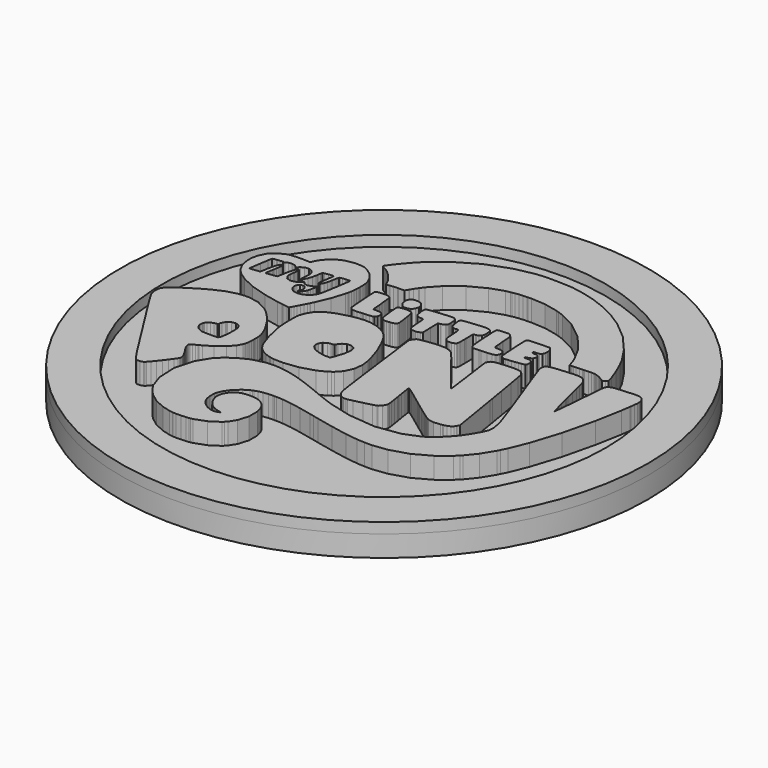
from build123d import *

# Parameters (mm, degrees)
F0_R     = 25
F0_R_2   = 21
F1_DEPTH = 2
F2_DEPTH = 1
F4_DEPTH = 2


with BuildPart() as f1:
    # F0 (on Top) → F1 (new body)
    with BuildSketch(Plane.XY):
        Circle(F0_R)
        Circle(F0_R_2, mode=Mode.SUBTRACT)
        Circle(F0_R_2)
    extrude(amount=-F1_DEPTH)

    # F0 (on Top) → F2 (join)
    with BuildSketch(Plane.XY):
        Circle(F0_R)
        Circle(F0_R_2, mode=Mode.SUBTRACT)
    extrude(amount=F2_DEPTH)

    # F3 (on face) → F4 (join)
    with BuildSketch(Plane.XY):
        Polygon((-6.68514, -17.02338), (-6.41054, -17.05756), (-6.31614, -17.06896), (-6.02974, -17.08252), (-5.58114, -17.07981), (-5.13174, -17.05105), (-4.84264, -17.01687), (-4.74774, -16.99897), (-4.52154, -16.95502), (-3.45914, -16.5644), (-2.57484, -15.98606), (-2.43704, -15.8488), (-2.25974, -15.67084), (-1.85224, -15.01166), (-1.55274, -14.0313), (-1.55874, -13.03793), (-1.76544, -12.35487), (-1.88914, -12.16336), (-1.95524, -12.06081), (-2.21024, -11.79009), (-2.61554, -11.54379), (-3.12274, -11.41791), (-3.59264, -11.39622), (-3.74774, -11.40598), (-3.84444, -11.4114), (-4.13244, -11.44722), (-4.44064, -11.52479), (-4.69944, -11.6485), (-4.88014, -11.77816), (-4.93484, -11.82752), (-5.01244, -11.89697), (-5.20774, -12.14708), (-5.38194, -12.51547), (-5.44874, -12.90609), (-5.42694, -13.20013), (-5.39984, -13.29237), (-5.35804, -13.43615), (-5.17304, -13.85063), (-4.85344, -14.27925), (-4.43734, -14.58144), (-4.05444, -14.7328), (-3.92194, -14.76047), (-3.88174, -14.76861), (-3.70764, -14.80984), (-3.60944, -14.83913), (-3.60674, -14.84186), (-3.64634, -14.87712), (-3.74344, -14.92377), (-3.76844, -14.93408), (-3.83244, -14.95958), (-4.03974, -14.99865), (-4.32834, -14.99105), (-4.62234, -14.91726), (-4.90994, -14.78488), (-5.17954, -14.59988), (-5.41884, -14.36984), (-5.61584, -14.10129), (-5.73074, -13.87886), (-5.75794, -13.80127), (-5.78344, -13.73075), (-5.85344, -13.2685), (-5.84144, -12.79325), (-5.82514, -12.71675), (-5.79204, -12.55506), (-5.59024, -12.09229), (-5.17244, -11.51069), (-4.60994, -11.01263), (-4.11564, -10.7137), (-3.93984, -10.64101), (-3.84224, -10.60031), (-3.54054, -10.49723), (-3.13314, -10.40555), (-2.66814, -10.35672), (-2.23844, -10.34261), (-2.09524, -10.34315), (-1.90164, -10.34315), (-1.31944, -10.37027), (-0.48724, -10.47065), (0.59516, -10.67355), (1.74206, -10.9242), (2.12346, -11.01155), (2.65516, -11.13308), (4.25576, -11.48194), (5.80406, -11.77598), (6.97546, -11.92736), (7.72736, -11.97076), (7.97796, -11.97076), (8.43526, -11.97076), (9.80846, -11.79877), (11.50936, -11.28173), (13.08206, -10.41748), (14.19806, -9.5375), (14.53126, -9.20545), (14.70376, -9.03293), (15.47796, -8.07265), (16.19456, -6.89479), (16.33846, -6.61379), (16.61346, -6.07449), (17.29706, -4.38339), (18.16516, -1.66369), (18.90626, 1.41681), (19.36626, 3.89781), (19.48576, 4.72911), (19.50196, 4.84401), (19.54806, 5.18911), (19.58166, 5.50161), (19.58876, 5.70611), (19.58006, 5.81031), (19.57306, 5.84341), (19.55576, 5.91881), (19.46446, 6.13631), (19.28936, 6.34521), (19.04686, 6.47001), (18.81406, 6.51131), (18.73646, 6.51131), (18.69026, 6.51131), (18.55366, 6.50591), (18.25846, 6.49111), (17.89116, 6.46891), (17.59166, 6.44881), (17.49236, 6.44181), (17.32866, 6.43041), (16.83916, 6.38641), (16.45506, 6.32031), (16.24836, 6.21671), (16.15126, 6.09521), (16.12796, 6.04951), (16.11226, 6.02021), (16.05256, 5.79611), (16.00956, 5.43591), (16.00266, 5.33821), (15.98256, 5.06811), (15.92186, 4.25701), (15.85126, 3.36241), (15.78296, 2.57131), (15.72976, 1.99411), (15.71126, 1.80141), (15.70046, 1.68921), (15.66626, 1.35061), (15.62826, 0.97911), (15.60006, 0.72561), (15.58866, 0.63131), (15.58696, 0.62911), (15.53876, 0.80001), (15.41666, 1.27361), (15.23976, 1.97721), (15.07866, 2.62341), (15.02546, 2.83881), (14.96586, 3.08071), (14.78626, 3.80671), (14.60666, 4.52711), (14.47586, 5.03991), (14.38206, 5.38541), (14.31326, 5.60251), (14.25896, 5.73151), (14.20626, 5.81241), (14.16076, 5.86671), (14.14556, 5.88461), (14.11576, 5.91931), (14.02186, 6.01701), (13.89486, 6.11571), (13.74346, 6.18411), (13.54826, 6.22421), (13.28896, 6.23841), (12.94596, 6.22961), (12.49946, 6.19971), (12.07146, 6.16411), (11.92936, 6.15101), (11.81866, 6.14131), (11.48706, 6.10861), (11.14366, 6.06641), (10.88766, 6.01861), (10.70526, 5.95951), (10.58546, 5.88411), (10.51436, 5.78701), (10.48076, 5.66211), (10.47196, 5.54391), (10.47196, 5.50431), (10.47196, 5.48161), (10.47796, 5.41101), (10.50406, 5.28181), (10.55936, 5.08711), (10.65436, 4.79851), (10.79916, 4.38561), (11.00326, 3.82031), (11.27706, 3.07271), (11.54236, 2.35321), (11.63086, 2.11351), (11.81916, 1.60291), (12.38076, 0.06811), (12.95196, -1.51719), (13.34366, -2.64249), (13.51556, -3.16329), (13.55686, -3.30869), (13.60296, -3.47089), (13.71696, -4.16799), (13.67726, -4.71649), (13.64636, -4.80439), (13.62026, -4.87659), (13.52436, -5.08649), (13.33166, -5.45169), (13.07296, -5.88949), (12.83586, -6.26599), (12.75506, -6.39029), (12.66936, -6.51989), (12.38116, -6.88939), (11.91686, -7.40695), (11.41876, -7.88276), (11.06876, -8.17301), (10.94516, -8.25873), (10.50836, -8.55876), (9.00276, -9.17454), (6.70626, -9.50711), (4.08906, -9.25645), (1.89186, -8.68354), (1.18596, -8.4215), (1.11596, -8.39545), (0.90706, -8.31462), (0.52796, -8.16541), (0.09826, -7.9929), (-0.22514, -7.86105), (-0.33204, -7.81711), (-0.68354, -7.67226), (-1.74634, -7.25993), (-2.86564, -6.88449), (-3.82164, -6.65229), (-4.51334, -6.54649), (-4.74494, -6.52539), (-5.04984, -6.49709), (-5.97494, -6.54219), (-7.13594, -6.82269), (-8.21344, -7.36138), (-8.97024, -7.93213), (-9.19274, -8.1524), (-9.51384, -8.46923), (-10.24088, -9.65902), (-10.73405, -11.43527), (-10.64887, -13.26958), (-10.20453, -14.57763), (-9.96148, -14.95252), (-9.82367, -15.1652), (-9.30504, -15.73703), (-8.47054, -16.36366), (-7.49404, -16.81071), align=None)
        Polygon((-13.75488, -12.13298), (-13.70822, -12.15305), (-13.6697, -12.16933), (-13.38433, -12.1742), (-13.10003, -12.09175), (-13.06206, -12.06516), (-13.02571, -12.03912), (-12.9324, -11.93766), (-12.72081, -11.69406), (-12.45822, -11.37288), (-12.1734, -11.01155), (-11.89616, -10.64805), (-11.65473, -10.31983), (-11.48003, -10.06537), (-11.41113, -9.96012), (-11.39973, -9.92215), (-11.38617, -9.87494), (-11.37966, -9.72412), (-11.43988, -9.48595), (-11.59451, -9.174), (-11.78819, -8.85823), (-11.85601, -8.75569), (-11.91352, -8.66888), (-12.07737, -8.40251), (-12.20377, -8.14861), (-12.24555, -7.96632), (-12.22873, -7.85943), (-12.21245, -7.82959), (-12.20594, -7.81657), (-12.14844, -7.77045), (-12.01063, -7.67713), (-11.81912, -7.5632), (-11.65038, -7.46988), (-11.59342, -7.44059), (-11.34115, -7.30876), (-10.60763, -6.86989), (-9.87847, -6.31209), (-9.37774, -5.74139), (-9.13034, -5.29219), (-9.07764, -5.13319), (-9.06194, -5.08489), (-9.02124, -4.93839), (-8.98924, -4.74799), (-8.97564, -4.50059), (-8.97354, -4.22719), (-8.97354, -4.13659), (-8.97404, -4.04329), (-8.97844, -3.76439), (-8.99574, -3.51259), (-9.03374, -3.31079), (-9.08254, -3.14259), (-9.10044, -3.08729), (-9.17264, -2.86759), (-9.47154, -2.23659), (-10.00976, -1.37069), (-10.64941, -0.58079), (-11.14366, -0.09579), (-11.32595, 0.04151), (-11.51203, 0.18251), (-12.44195, 0.65721), (-13.43858, 0.85161), (-13.65777, 0.85161), (-13.87152, 0.85211), (-14.51334, 0.77611), (-15.40147, 0.53201), (-16.37803, 0.09961), (-17.22548, -0.37189), (-17.49945, -0.54229), (-17.62206, -0.61819), (-17.98883, -0.84889), (-18.39301, -1.11189), (-18.72124, -1.33759), (-18.9822, -1.53289), (-19.18348, -1.70389), (-19.33431, -1.85789), (-19.44281, -2.00109), (-19.50195, -2.10479), (-19.51714, -2.14109), (-19.54481, -2.20459), (-19.58875, -2.64399), (-19.51063, -3.11759), (-19.47699, -3.19909), (-19.46234, -3.23539), (-19.31803, -3.48609), (-18.96592, -4.06979), (-18.47276, -4.86519), (-18.0371, -5.55799), (-17.89062, -5.78799), (-17.72515, -6.04789), (-17.22927, -6.83029), (-16.51855, -7.9522), (-15.84473, -9.01829), (-15.43023, -9.67529), (-15.29242, -9.89502), (-15.12206, -10.16683), (-14.60449, -10.98009), (-14.15527, -11.65445), (-13.87912, -12.01416), align=None)
        Polygon((-11.25434, -5.59649), (-11.28634, -5.60519), (-11.32324, -5.61499), (-11.5587, -5.62419), (-12.02745, -5.62529), (-12.50434, -5.61059), (-12.75281, -5.59439), (-12.79948, -5.58349), (-12.90581, -5.55849), (-13.20855, -5.41479), (-13.47927, -5.15159), (-13.5932, -4.82289), (-13.56553, -4.54079), (-13.53081, -4.45769), (-13.50802, -4.40189), (-13.39246, -4.25429), (-13.17599, -4.08829), (-12.91178, -3.97599), (-12.70019, -3.93529), (-12.62912, -3.93529), (-12.61284, -3.93529), (-12.56402, -3.86689), (-12.56402, -3.84469), (-12.56402, -3.77579), (-12.48426, -3.56909), (-12.33833, -3.32979), (-12.30523, -3.29509), (-12.23849, -3.22459), (-11.98242, -3.06509), (-11.64116, -2.99999), (-11.33517, -3.09649), (-11.15234, -3.27879), (-11.11816, -3.35209), (-11.10405, -3.38299), (-11.06878, -3.48009), (-11.04058, -3.63199), (-11.02756, -3.85609), (-11.0243, -4.11649), (-11.0243, -4.20329), (-11.02484, -4.33999), (-11.04438, -4.75019), (-11.09755, -5.18529), (-11.18055, -5.47989), align=None, mode=Mode.SUBTRACT)
        Polygon((1.98946, -7.35976), (2.05626, -7.37604), (2.07456, -7.38037), (2.30576, -7.38959), (2.32416, -7.38688), (2.42086, -7.37061), (2.85586, -7.27241), (3.65666, -7.08089), (4.40546, -6.88989), (4.75416, -6.79449), (4.78236, -6.77979), (4.83946, -6.74989), (5.08256, -6.51119), (5.24796, -6.18349), (5.26586, -6.10979), (5.27016, -6.09079), (5.26206, -5.96489), (5.22576, -5.66049), (5.16006, -5.21889), (5.09226, -4.80119), (5.06896, -4.66229), (5.04616, -4.53099), (4.98156, -4.13819), (4.91266, -3.68949), (4.86826, -3.36339), (4.85346, -3.22669), (4.85576, -3.20879), (4.85626, -3.19909), (4.86546, -3.17079), (4.90016, -3.16219), (4.98096, -3.19739), (5.12956, -3.29129), (5.36776, -3.45789), (5.71666, -3.71179), (6.19796, -4.06819), (6.67436, -4.42249), (6.83326, -4.54079), (6.93256, -4.61449), (7.23256, -4.83639), (7.61506, -5.11749), (7.97136, -5.37629), (8.29206, -5.60679), (8.56876, -5.80269), (8.79236, -5.95679), (8.95346, -6.06359), (9.01906, -6.10539), (9.04296, -6.11629), (9.13026, -6.15639), (9.66086, -6.25029), (10.32056, -6.20249), (10.47256, -6.17219), (10.56366, -6.15369), (10.83386, -6.08149), (11.09096, -5.96919), (11.27226, -5.81949), (11.37806, -5.66919), (11.40516, -5.61549), (11.51266, -5.39899), (10.78896, -0.97299), (10.71776, -0.53899), (10.50236, 0.76201), (10.25766, 2.21321), (10.08136, 3.22951), (10.00766, 3.62991), (9.99896, 3.65811), (9.98266, 3.70851), (9.84206, 3.93851), (9.64516, 4.11211), (9.60126, 4.13381), (9.55516, 4.15671), (9.39616, 4.18701), (9.05976, 4.21091), (8.59806, 4.20431), (8.16146, 4.17951), (8.01656, 4.16751), (7.87116, 4.15611), (7.43656, 4.11271), (7.09736, 4.04661), (6.91236, 3.94181), (6.81956, 3.81591), (6.79626, 3.76971), (6.70576, 3.59611), (7.03016, 1.21821), (7.06166, 0.98661), (7.15446, 0.28951), (7.25476, -0.48149), (7.31936, -1.01479), (7.34096, -1.21979), (7.33946, -1.22969), (7.30306, -1.20209), (7.20546, -1.09289), (7.05086, -0.90899), (6.84516, -0.65619), (6.59296, -0.34209), (6.29936, 0.02851), (5.97056, 0.44781), (5.70046, 0.79411), (5.61086, 0.90961), (5.44206, 1.12771), (4.93326, 1.77861), (4.35396, 2.51111), (3.93556, 3.03031), (3.76026, 3.23971), (3.73866, 3.25881), (3.65556, 3.33201), (3.36376, 3.50131), (2.89006, 3.62431), (2.25266, 3.63631), (1.60206, 3.57451), (1.38666, 3.54401), (1.25766, 3.52611), (0.73236, 3.43671), (0.42476, 3.36071), (0.40476, 3.34881), (0.38576, 3.33851), (0.28006, 3.23491), (0.18226, 3.09541), (0.16826, 3.06671), (0.06516, 2.86041), (0.64616, -1.70929), (0.71126, -2.22359), (0.91086, -3.76819), (1.10946, -5.24879), (1.24576, -6.17979), (1.30646, -6.53779), (1.32326, -6.59149), (1.34706, -6.67069), (1.44416, -6.90129), (1.59836, -7.12647), (1.79796, -7.28), align=None)
        Polygon((-6.34874, -5.64429), (-6.20174, -5.67519), (-5.90164, -5.73809), (-4.96694, -5.76469), (-3.59854, -5.59709), (-2.29764, -5.21349), (-1.49584, -4.83149), (-1.26474, -4.65689), (-1.08564, -4.52069), (-0.62274, -4.01449), (-0.25274, -3.25819), (-0.14854, -2.37159), (-0.24194, -1.58889), (-0.30654, -1.33709), (-0.37484, -1.07179), (-0.75844, 0.11641), (-1.22884, 1.20251), (-1.34014, 1.41681), (-1.41444, 1.56001), (-1.65694, 1.97841), (-1.95094, 2.37661), (-2.26944, 2.66521), (-2.56084, 2.84861), (-2.66224, 2.89961), (-2.81674, 2.97771), (-3.30024, 3.17031), (-3.91704, 3.31031), (-4.58104, 3.32771), (-5.16594, 3.26531), (-5.35864, 3.23101), (-5.62444, 3.18491), (-6.79574, 2.87741), (-7.65954, 2.50291), (-7.77124, 2.42321), (-7.85374, 2.36461), (-8.08544, 2.16561), (-8.33664, 1.87531), (-8.54164, 1.53131), (-8.67944, 1.21671), (-8.71744, 1.10921), (-8.73594, 1.05821), (-8.78474, 0.90201), (-8.81994, 0.69421), (-8.83304, 0.38111), (-8.83464, -0.00999), (-8.83414, -0.14079), (-8.83414, -0.29929), (-8.81454, -0.94649), (-8.77004, -1.43529), (-8.75704, -1.51499), (-8.71144, -1.79659), (-8.39464, -3.15029), (-8.00454, -4.28199), (-7.92154, -4.45339), (-7.86624, -4.56839), (-7.64104, -4.88579), (-7.25804, -5.23519), (-6.77734, -5.49889), align=None)
        Polygon((-2.54834, -2.43249), (-2.60694, -2.58499), (-2.74904, -2.95329), (-3.04744, -2.94789), (-3.09564, -2.94679), (-3.23884, -2.94299), (-3.38424, -2.92939), (-3.55904, -2.89749), (-3.76734, -2.85079), (-3.83624, -2.83499), (-3.93774, -2.81159), (-4.23344, -2.70909), (-4.54484, -2.53609), (-4.76024, -2.32459), (-4.85454, -2.14649), (-4.86594, -2.08359), (-4.88224, -1.99679), (-4.85194, -1.72289), (-4.68204, -1.43209), (-4.38154, -1.23829), (-4.07814, -1.16779), (-3.97674, -1.16779), (-3.93064, -1.16779), (-3.79064, -1.14339), (-3.71744, -1.03869), (-3.70124, -1.00069), (-3.66204, -0.90729), (-3.46194, -0.66159), (-3.12664, -0.47499), (-2.75814, -0.45819), (-2.48694, -0.56829), (-2.41854, -0.62959), (-2.38664, -0.65789), (-2.29764, -0.78369), (-2.26564, -0.99209), (-2.26174, -1.06209), (-2.25744, -1.14939), (-2.33944, -1.72549), align=None, mode=Mode.SUBTRACT)
        Polygon((-11.36501, 1.60721), (-10.8903, 1.53671), (-10.79209, 1.52271), (-10.38356, 1.46071), (-10.16981, 1.42711), (-10.16873, 1.42601), (-10.16819, 1.42601), (-10.13942, 1.46721), (-10.06944, 1.58721), (-9.96908, 1.76721), (-9.84647, 1.99201), (-9.71191, 2.24251), (-9.57514, 2.50181), (-9.44444, 2.75311), (-9.35764, 2.92241), (-9.32944, 2.97881), (-9.19754, 3.24351), (-8.65504, 4.52281), (-8.26334, 5.76251), (-8.20634, 6.00721), (-8.18954, 6.08101), (-8.14394, 6.30351), (-8.10654, 6.56341), (-8.08754, 6.85031), (-8.08164, 7.13181), (-8.08104, 7.22521), (-8.08104, 7.31791), (-8.08264, 7.59631), (-8.09574, 7.85071), (-8.12554, 8.04341), (-8.16244, 8.18451), (-8.17654, 8.23001), (-8.22704, 8.38891), (-8.45814, 8.83921), (-8.87204, 9.35091), (-9.38854, 9.73711), (-9.82638, 9.93291), (-9.97884, 9.96881), (-10.10742, 9.99921), (-10.79915, 10.02141), (-11.57552, 9.86891), (-11.74641, 9.81201), (-11.8788, 9.76811), (-12.25315, 9.57111), (-12.71159, 9.21421), (-13.09135, 8.76921), (-13.31109, 8.39821), (-13.36317, 8.26571), (-13.44834, 8.05101), (-13.68706, 8.07381), (-13.80099, 8.08461), (-14.14442, 8.09651), (-14.64626, 8.09171), (-15.10253, 8.06241), (-15.3483, 8.03141), (-15.42155, 8.01131), (-15.62608, 7.95601), (-16.20821, 7.67341), (-16.78602, 7.15421), (-17.14192, 6.47111), (-17.26345, 5.84821), (-17.26291, 5.64041), (-17.26291, 5.49391), (-17.21788, 5.05451), (-17.07791, 4.53901), (-16.8381, 4.07901), (-16.58637, 3.75521), (-16.49088, 3.65861), (-16.29123, 3.45671), (-15.57997, 2.96031), (-14.34081, 2.37281), (-12.77669, 1.89811), align=None)
        Polygon((-10.53819, 3.73561), (-10.56966, 3.72151), (-10.69119, 3.66721), (-11.09646, 3.59401), (-11.54894, 3.67861), (-11.86523, 3.94671), (-11.98405, 4.26401), (-11.98405, 4.36991), (-11.98405, 4.42571), (-11.92599, 4.59341), (-11.77626, 4.75021), (-11.5739, 4.81681), (-11.40353, 4.79401), (-11.35633, 4.76861), (-11.31673, 4.74741), (-11.22341, 4.63461), (-11.1518, 4.43711), (-11.15071, 4.22281), (-11.19899, 4.07741), (-11.2283, 4.03951), (-11.24728, 4.01561), (-11.2972, 3.93681), (-11.24837, 3.92171), (-11.23155, 3.92171), (-11.16916, 3.92171), (-10.98198, 4.06391), (-10.80783, 4.35201), (-10.78396, 4.42521), (-10.76551, 4.48381), (-10.71723, 4.66111), (-10.65809, 4.91781), (-10.61631, 5.15271), (-10.60003, 5.27961), (-10.60003, 5.32201), (-10.60003, 5.33721), (-10.61848, 5.38111), (-10.69878, 5.31931), (-10.72265, 5.29661), (-10.7883, 5.23571), (-11.03027, 5.10171), (-11.35091, 5.03881), (-11.62326, 5.10821), (-11.76595, 5.25141), (-11.78385, 5.30791), (-11.78819, 5.32091), (-11.84244, 5.34701), (-11.97916, 5.22211), (-12.02094, 5.17711), (-12.07573, 5.11961), (-12.35026, 4.93241), (-12.67035, 4.85971), (-12.7474, 4.85921), (-12.83637, 4.85921), (-13.17383, 4.98951), (-13.37022, 5.29541), (-13.38867, 5.38341), (-13.39301, 5.40341), (-13.38813, 5.63071), (-13.35395, 5.95401), (-13.34309, 6.02241), (-13.3317, 6.10001), (-13.30295, 6.33321), (-13.30187, 6.51611), (-13.34309, 6.59361), (-13.41037, 6.59361), (-13.4299, 6.58611), (-13.4592, 6.57531), (-13.5281, 6.49281), (-13.62033, 6.28611), (-13.70876, 5.95781), (-13.77658, 5.61501), (-13.79556, 5.49991), (-13.81184, 5.40281), (-13.88347, 4.99591), (-13.92577, 4.77951), (-13.92741, 4.77721), (-13.93228, 4.77241), (-14.09342, 4.74591), (-14.44173, 4.69751), (-14.78895, 4.65571), (-14.94899, 4.64111), (-14.95226, 4.64491), (-14.95388, 4.64711), (-14.94737, 4.71061), (-14.92349, 4.87771), (-14.88606, 5.12181), (-14.84972, 5.34361), (-14.83723, 5.41701), (-14.82476, 5.49291), (-14.78841, 5.72131), (-14.74771, 5.98881), (-14.71951, 6.19001), (-14.7092, 6.28021), (-14.70866, 6.29641), (-14.70866, 6.33271), (-14.75042, 6.44131), (-14.85515, 6.42171), (-14.98698, 6.26651), (-15.08463, 6.07071), (-15.10688, 6.00241), (-15.11935, 5.96491), (-15.19856, 5.64641), (-15.27831, 5.24881), (-15.29134, 5.17171), (-15.30435, 5.09521), (-15.36187, 4.77351), (-15.39821, 4.60101), (-15.39984, 4.59881), (-15.40581, 4.59281), (-15.55609, 4.56781), (-15.87781, 4.52341), (-16.19845, 4.48751), (-16.34765, 4.47611), (-16.35199, 4.48061), (-16.35796, 4.48661), (-16.31184, 4.83531), (-16.19737, 5.59771), (-16.07151, 6.36641), (-16.00694, 6.72651), (-15.99771, 6.74071), (-15.99392, 6.74721), (-15.87456, 6.78461), (-15.66623, 6.82101), (-15.6174, 6.82641), (-15.56912, 6.83241), (-15.33258, 6.86171), (-15.15951, 6.88611), (-15.14215, 6.88881), (-15.11935, 6.89321), (-15.04666, 6.89041), (-15.01952, 6.85141), (-15.01952, 6.83781), (-15.01952, 6.82531), (-15.00759, 6.78741), (-14.95551, 6.82381), (-14.93977, 6.83721), (-14.88335, 6.88881), (-14.66796, 6.99241), (-14.35276, 7.04131), (-14.05816, 6.98541), (-13.88292, 6.87641), (-13.84656, 6.82431), (-13.83409, 6.80701), (-13.76573, 6.77431), (-13.6263, 6.88721), (-13.58344, 6.92791), (-13.51074, 6.99791), (-13.23947, 7.15361), (-12.88791, 7.20631), (-12.57216, 7.09071), (-12.37521, 6.89041), (-12.33452, 6.81071), (-12.31608, 6.77431), (-12.28027, 6.65281), (-12.2602, 6.44341), (-12.27538, 6.15591), (-12.31065, 5.86131), (-12.32476, 5.76311), (-12.33019, 5.72561), (-12.33398, 5.61061), (-12.29492, 5.57381), (-12.2819, 5.57381), (-12.24392, 5.57381), (-12.12999, 5.67251), (-11.97862, 5.93841), (-11.84841, 6.32571), (-11.77299, 6.67241), (-11.75781, 6.78911), (-11.75021, 6.84861), (-11.7079, 7.11131), (-11.67209, 7.26921), (-11.6672, 7.27671), (-11.65906, 7.28971), (-11.50716, 7.32781), (-11.18327, 7.38471), (-10.85828, 7.42431), (-10.70312, 7.43241), (-10.69281, 7.42211), (-10.6901, 7.41951), (-10.69444, 7.35431), (-10.71342, 7.18341), (-10.74652, 6.93601), (-10.77908, 6.71141), (-10.79047, 6.63661), (-10.80187, 6.56171), (-10.83441, 6.33651), (-10.86697, 6.08471), (-10.88487, 5.90851), (-10.88813, 5.83901), (-10.88487, 5.83361), (-10.88216, 5.82881), (-10.80133, 5.79671), (-10.7731, 5.79671), (-10.74706, 5.79671), (-10.6684, 5.86951), (-10.56098, 6.07221), (-10.45898, 6.38641), (-10.38845, 6.68861), (-10.37001, 6.79001), (-10.35806, 6.85951), (-10.3011, 7.17361), (-10.26421, 7.37711), (-10.26149, 7.39071), (-10.25824, 7.40861), (-10.23112, 7.45741), (-10.14105, 7.50181), (-9.94791, 7.53711), (-9.69238, 7.56641), (-9.60666, 7.57461), (-9.53614, 7.58221), (-9.32184, 7.59201), (-9.26054, 7.55351), (-9.26054, 7.54041), (-9.26054, 7.50631), (-9.27844, 7.40271), (-9.32674, 7.07821), (-9.39774, 6.61641), (-9.46234, 6.20251), (-9.48404, 6.06471), (-9.50524, 5.93341), (-9.56974, 5.53911), (-9.64246, 5.12721), (-9.70758, 4.81041), (-9.77213, 4.57061), (-9.84158, 4.38931), (-9.92133, 4.24841), (-10.01735, 4.12841), (-10.10524, 4.04001), (-10.13563, 4.01181), (-10.16384, 3.98631), (-10.34722, 3.84961), align=None, mode=Mode.SUBTRACT)
        Polygon((-6.35204, 4.10841), (-6.33304, 4.09861), (-6.30964, 4.08721), (-6.23314, 4.06431), (-6.07364, 4.05141), (-5.79264, 4.05951), (-5.44484, 4.08021), (-5.32874, 4.08771), (-5.24244, 4.09361), (-4.98264, 4.11431), (-4.68154, 4.14251), (-4.45694, 4.17071), (-4.35874, 4.18701), (-4.34194, 4.19351), (-4.29744, 4.21201), (-4.14554, 4.40181), (-4.11084, 4.67421), (-4.12384, 4.73391), (-4.13524, 4.78381), (-4.19704, 4.92701), (-4.33114, 5.03991), (-4.56054, 5.08711), (-4.83014, 5.08921), (-4.91914, 5.08431), (-4.95664, 5.08271), (-5.07054, 5.09141), (-5.10904, 5.13381), (-5.10904, 5.14721), (-5.10904, 5.18851), (-5.11774, 5.31171), (-5.13994, 5.58181), (-5.17194, 5.91991), (-5.20994, 6.28651), (-5.24904, 6.64471), (-5.28654, 6.95451), (-5.31674, 7.17851), (-5.32764, 7.26161), (-5.33634, 7.27781), (-5.35314, 7.30931), (-5.43024, 7.38791), (-5.58054, 7.45571), (-5.80244, 7.48501), (-6.03464, 7.48451), (-6.11164, 7.48021), (-6.18704, 7.47641), (-6.41274, 7.45901), (-6.59454, 7.43201), (-6.69164, 7.39071), (-6.72904, 7.34521), (-6.73554, 7.32781), (-6.74644, 7.29951), (-6.72954, 6.82211), (-6.66884, 5.80921), (-6.58904, 4.79461), (-6.53974, 4.31291), (-6.52454, 4.28091), (-6.51744, 4.26571), (-6.44584, 4.18101), align=None)
        Polygon((-3.52424, 4.24931), (-3.48794, 4.23471), (-3.46734, 4.22651), (-3.40274, 4.20601), (-3.30294, 4.19631), (-3.13864, 4.20541), (-2.92974, 4.22561), (-2.86024, 4.23251), (-2.79564, 4.23961), (-2.60304, 4.27061), (-2.42944, 4.32531), (-2.31924, 4.40721), (-2.26344, 4.49521), (-2.25094, 4.52671), (-2.24294, 4.54891), (-2.24884, 4.62641), (-2.26664, 4.83041), (-2.29924, 5.10501), (-2.34154, 5.41701), (-2.38984, 5.73211), (-2.43814, 6.01751), (-2.48204, 6.23951), (-2.50424, 6.33491), (-2.51674, 6.36361), (-2.53804, 6.41091), (-2.74634, 6.55571), (-3.12444, 6.58881), (-3.23024, 6.58021), (-3.30884, 6.57421), (-3.54444, 6.55091), (-3.74024, 6.51991), (-3.84874, 6.48091), (-3.89264, 6.44181), (-3.90134, 6.42541), (-3.90734, 6.41461), (-3.91274, 6.21281), (-3.88774, 5.86021), (-3.87854, 5.77341), (-3.85844, 5.58031), (-3.78954, 5.00091), (-3.71154, 4.55271), (-3.61924, 4.32971), align=None)
        Polygon((-0.95974, 4.40291), (-0.93264, 4.37911), (-0.90924, 4.35851), (-0.78234, 4.29821), (-0.57944, 4.27861), (-0.51164, 4.27861), (-0.44224, 4.27861), (-0.23334, 4.29991), (-0.09274, 4.37361), (-0.06134, 4.39971), (0.08256, 4.52071), (0.05866, 5.42561), (0.03416, 6.33061), (0.25986, 6.36041), (0.29836, 6.36591), (0.59946, 6.49281), (0.62336, 6.51391), (0.64346, 6.53241), (0.70206, 6.59151), (0.74166, 6.67021), (0.75366, 6.79341), (0.75026, 6.95221), (0.74876, 7.00491), (0.74596, 7.07821), (0.72546, 7.29631), (0.67596, 7.50091), (0.59406, 7.63471), (0.50666, 7.70211), (0.47416, 7.71521), (0.44706, 7.72661), (0.35976, 7.74221), (0.15406, 7.74541), (-0.20834, 7.72321), (-0.64664, 7.68641), (-0.79264, 7.67281), (-0.91474, 7.66201), (-1.28094, 7.62561), (-1.65264, 7.58171), (-1.90104, 7.54251), (-2.00134, 7.51921), (-2.01724, 7.50891), (-2.03774, 7.49641), (-2.08554, 7.43681), (-2.11374, 7.30881), (-2.10344, 7.09611), (-2.06974, 6.84971), (-2.05624, 6.76781), (-2.04484, 6.69521), (-1.99164, 6.47861), (-1.89614, 6.30501), (-1.74424, 6.22101), (-1.56904, 6.19881), (-1.51044, 6.19881), (-1.45344, 6.19881), (-1.28094, 6.18351), (-1.21354, 6.13681), (-1.20874, 6.12061), (-1.20604, 6.10971), (-1.18424, 5.90141), (-1.16094, 5.56131), (-1.15664, 5.48421), (-1.15064, 5.36491), (-1.12414, 5.00571), (-1.08124, 4.69041), (-1.02054, 4.49571), align=None)
        Polygon((2.26836, 4.57821), (2.30626, 4.55861), (2.35516, 4.53361), (2.52706, 4.50391), (2.78156, 4.52171), (3.00946, 4.60041), (3.13046, 4.68891), (3.15156, 4.72791), (3.16086, 4.74591), (3.18846, 5.00891), (3.19116, 5.54711), (3.18846, 5.70221), (3.17226, 6.57681), (3.37896, 6.60611), (3.44886, 6.61641), (3.65506, 6.67611), (3.81576, 6.80911), (3.88016, 7.03591), (3.87756, 7.30061), (3.86876, 7.38791), (3.86016, 7.47421), (3.81516, 7.73031), (3.73586, 7.86001), (3.71046, 7.88221), (3.68006, 7.90821), (3.56446, 7.95651), (3.29806, 7.98311), (2.82446, 7.96201), (2.24766, 7.91211), (2.05626, 7.89361), (1.90976, 7.87951), (1.47026, 7.83171), (1.15666, 7.77211), (1.03026, 7.68741), (1.00756, 7.58381), (1.00756, 7.54911), (1.00756, 7.50091), (1.02206, 7.35541), (1.05956, 7.09451), (1.10576, 6.84271), (1.13656, 6.70921), (1.14956, 6.67611), (1.16756, 6.63061), (1.34226, 6.47811), (1.61346, 6.43591), (1.67976, 6.44451), (1.71656, 6.44991), (1.82886, 6.45971), (1.90636, 6.38271), (1.94766, 6.11351), (1.97696, 5.69201), (1.98686, 5.55101), (1.99436, 5.43641), (2.02476, 5.09141), (2.07796, 4.81421), (2.16476, 4.65741), align=None)
        Polygon((4.39236, 4.97751), (4.40596, 4.96281), (4.51166, 4.84841), (5.10046, 4.87541), (5.28436, 4.88421), (5.83766, 4.91411), (6.26256, 4.95201), (6.48116, 5.00461), (6.57336, 5.06211), (6.59836, 5.08651), (6.62166, 5.11041), (6.69546, 5.22271), (6.72136, 5.35131), (6.72136, 5.39361), (6.72136, 5.45771), (6.68236, 5.64811), (6.55766, 5.81411), (6.33576, 5.89921), (6.08666, 5.91711), (6.00476, 5.91281), (5.97876, 5.91171), (5.90226, 5.90571), (5.82686, 5.90681), (5.77256, 5.93341), (5.73456, 6.00391), (5.70586, 6.13531), (5.68146, 6.34521), (5.65546, 6.65071), (5.62986, 6.96471), (5.62166, 7.06891), (5.54526, 8.00641), (5.39506, 8.15781), (5.24526, 8.30921), (4.72936, 8.28641), (4.63166, 8.28211), (4.30936, 8.25341), (4.15586, 8.20561), (4.14226, 8.19201), (4.12826, 8.17851), (4.10526, 8.11711), (4.09446, 7.92411), (4.10916, 7.51491), (4.14006, 6.97241), (4.15096, 6.79111), (4.15846, 6.66361), (4.18186, 6.27961), (4.20906, 5.88181), (4.23396, 5.58131), (4.25886, 5.36161), (4.28596, 5.20641), (4.31806, 5.09911), (4.35706, 5.02361), align=None)
        Polygon((7.11156, 5.08771), (7.12456, 5.07461), (7.14256, 5.05671), (7.30416, 4.94881), (7.36436, 4.94881), (7.40616, 4.94881), (7.53136, 4.95741), (7.77446, 4.97961), (8.06476, 5.01281), (8.37296, 5.05181), (8.66976, 5.09361), (8.92686, 5.13381), (9.11516, 5.16911), (9.18626, 5.18251), (9.20516, 5.19451), (9.23986, 5.21721), (9.31096, 5.33931), (9.33326, 5.54451), (9.27686, 5.75881), (9.18626, 5.89771), (9.14556, 5.92961), (9.12006, 5.94971), (8.99686, 6.00241), (8.80436, 6.00561), (8.74456, 6.00071), (8.68546, 5.99641), (8.50696, 5.99531), (8.46256, 6.04741), (8.46256, 6.06421), (8.46256, 6.08321), (8.50756, 6.14021), (8.64756, 6.17541), (8.69456, 6.18141), (8.77706, 6.19281), (9.04296, 6.32131), (9.12766, 6.56541), (9.12006, 6.63431), (9.11516, 6.67501), (9.08416, 6.79561), (9.01096, 6.89421), (8.88076, 6.94361), (8.72776, 6.95721), (8.67726, 6.95721), (8.62146, 6.95721), (8.45486, 6.97351), (8.41796, 7.04501), (8.41796, 7.06891), (8.41796, 7.09341), (8.45486, 7.16501), (8.61916, 7.18131), (8.67456, 7.18131), (8.74776, 7.18181), (8.96806, 7.21711), (9.14656, 7.33591), (9.22646, 7.56041), (9.23186, 7.82421), (9.22416, 7.91101), (9.21766, 7.97771), (9.17806, 8.18451), (9.09296, 8.30641), (9.06476, 8.33091), (8.93276, 8.44431), (7.95306, 8.41651), (7.82226, 8.41341), (7.43056, 8.39971), (7.12296, 8.38031), (6.96506, 8.35211), (6.90546, 8.32281), (6.89076, 8.30751), (6.87616, 8.29351), (6.84576, 8.23601), (6.82946, 8.06671), (6.84026, 7.69071), (6.86686, 7.17251), (6.87666, 7.00001), (6.88416, 6.85401), (6.90866, 6.41401), (6.93516, 5.97201), (6.95806, 5.65071), (6.98086, 5.42841), (7.00576, 5.28241), (7.03616, 5.18961), (7.07456, 5.12781), align=None)
        Polygon((15.10366, 6.83071), (15.15886, 6.78401), (15.31516, 6.65111), (15.48396, 6.83351), (15.65266, 7.01631), (15.53446, 7.42211), (15.48556, 7.58821), (15.12476, 8.56591), (14.67556, 9.57281), (14.58276, 9.75281), (14.33806, 10.22711), (13.45546, 11.57251), (12.06596, 13.17891), (10.43776, 14.54781), (9.07556, 15.41701), (8.59636, 15.65611), (8.34646, 15.78151), (7.57866, 16.12281), (6.58046, 16.48631), (5.54086, 16.76571), (4.68646, 16.93601), (4.40006, 16.98061), (4.23986, 17.00541), (3.74776, 17.04351), (2.88196, 17.07881), (1.99656, 17.08251), (1.46486, 17.06631), (1.28906, 17.04951), (0.68626, 16.99291), (-1.10244, 16.61861), (-3.33334, 15.79351), (-5.38134, 14.58571), (-6.79904, 13.43841), (-7.22224, 13.00701), (-7.28464, 12.94411), (-7.46634, 12.74821), (-7.73274, 12.44771), (-8.00504, 12.12591), (-8.26664, 11.80471), (-8.49934, 11.50591), (-8.68704, 11.24971), (-8.81234, 11.05821), (-8.85794, 10.97961), (-8.85794, 10.95291), (-8.85794, 10.93451), (-8.77554, 10.87861), (-8.61494, 10.78271), (-8.57584, 10.76201), (-8.45544, 10.69961), (-8.11634, 10.46741), (-7.68604, 10.08221), (-7.31114, 9.63291), (-7.07904, 9.27321), (-7.01604, 9.14571), (-6.99054, 9.09361), (-6.88204, 8.87391), (-6.82404, 8.75521), (-6.82294, 8.75291), (-6.82234, 8.75141), (-6.74264, 8.76491), (-6.59284, 8.79961), (-6.55654, 8.80891), (-6.51584, 8.81971), (-6.21524, 8.85991), (-5.82194, 8.87991), (-5.73514, 8.88041), (-5.17584, 8.88381), (-5.00654, 9.18161), (-4.98374, 9.22281), (-4.80584, 9.50601), (-4.59844, 9.81361), (-4.55994, 9.86681), (-4.30664, 10.22151), (-3.41474, 11.19221), (-2.06874, 12.26101), (-0.54364, 13.05791), (0.70846, 13.48001), (1.13706, 13.56851), (1.22776, 13.58751), (1.50226, 13.63851), (1.82946, 13.68351), (2.19076, 13.71111), (2.54186, 13.72641), (2.65886, 13.72961), (2.96936, 13.73891), (4.33806, 13.65531), (5.61626, 13.37751), (5.88166, 13.28961), (6.38076, 13.12471), (7.80226, 12.39341), (9.46296, 11.09351), (10.78776, 9.46531), (11.53266, 8.07381), (11.70196, 7.58221), (11.84796, 7.15851), (12.04156, 7.16061), (12.06826, 7.16111), (12.18526, 7.16651), (12.43376, 7.17961), (12.75226, 7.19921), (13.01706, 7.21601), (13.10546, 7.22201), (13.21406, 7.22961), (13.54116, 7.24851), (13.84936, 7.25841), (14.06686, 7.25131), (14.19056, 7.23661), (14.23126, 7.22791), (14.30616, 7.21271), (14.72486, 7.05271), align=None)
        Polygon((-3.60304, 6.79111), (-3.56444, 6.77921), (-3.52374, 6.76671), (-3.28124, 6.76461), (-3.03554, 6.83611), (-2.99314, 6.86001), (-2.91724, 6.90401), (-2.73984, 7.12321), (-2.65904, 7.46561), (-2.74954, 7.80741), (-2.93344, 8.02491), (-3.01054, 8.06841), (-3.04194, 8.08611), (-3.20854, 8.14211), (-3.41154, 8.16271), (-3.47874, 8.16271), (-3.52164, 8.16271), (-3.64854, 8.15951), (-3.75704, 8.14041), (-3.83954, 8.09491), (-3.90844, 8.03311), (-3.93014, 8.01091), (-3.96314, 7.97821), (-4.05544, 7.84811), (-4.08204, 7.69391), (-4.08204, 7.64241), (-4.08204, 7.61311), (-4.06904, 7.44341), (-4.04404, 7.28971), (-4.03744, 7.26811), (-4.02724, 7.22961), (-3.96804, 7.12101), (-3.85094, 6.97501), (-3.70874, 6.85351), align=None)
    extrude(amount=F4_DEPTH)


solid = f1.part
